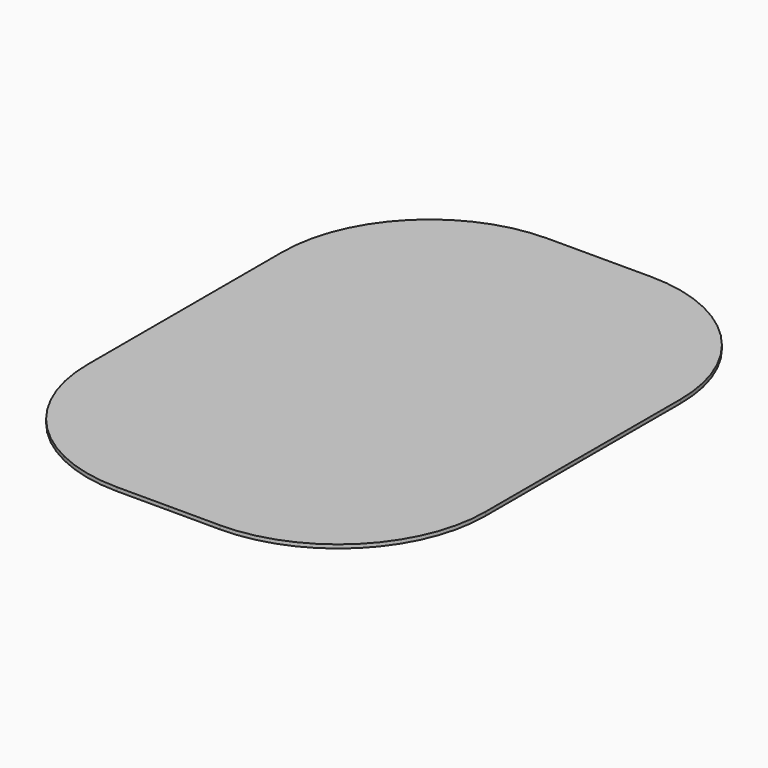
from build123d import *

# Parameters (mm, degrees)
F1_DEPTH = 3.175


with BuildPart() as f1:
    # F0 (on Top) → F1 (new body)
    with BuildSketch(Plane.XY):
        with BuildLine():
            Line((0, 0), (0, 231.775))
            Line((0, 231.775), (-44.45, 231.775))
            ThreePointArc((-44.45, 231.775), (-134.252561, 194.577561), (-171.45, 104.775))
            Line((-171.45, 104.775), (-171.45, 0))
            Line((-171.45, 0), (0, 0))
        make_face()
        with BuildLine():
            Line((44.581378, 231.775), (0, 231.775))
            Line((0, 231.775), (0, 0))
            Line((0, 0), (171.45, 0))
            Line((171.45, 0), (171.581278, 104.615633))
            ThreePointArc((171.581278, 104.615633), (134.440266, 194.521199), (44.581378, 231.775))
        make_face()
        with BuildLine():
            Line((171.45, 0), (0, 0))
            Line((0, 0), (0, -231.775))
            Line((0, -231.775), (44.243227, -231.847034))
            ThreePointArc((44.243227, -231.847034), (134.179426, -194.722839), (171.45, -104.847202))
            Line((171.45, -104.847202), (171.45, 0))
        make_face()
        with BuildLine():
            Line((0, -231.775), (0, 0))
            Line((0, 0), (-171.45, 0))
            Line((-171.45, 0), (-171.45, -104.775))
            ThreePointArc((-171.45, -104.775), (-134.252561, -194.577561), (-44.45, -231.775))
            Line((-44.45, -231.775), (0, -231.775))
        make_face()
    extrude(amount=F1_DEPTH)


solid = f1.part
